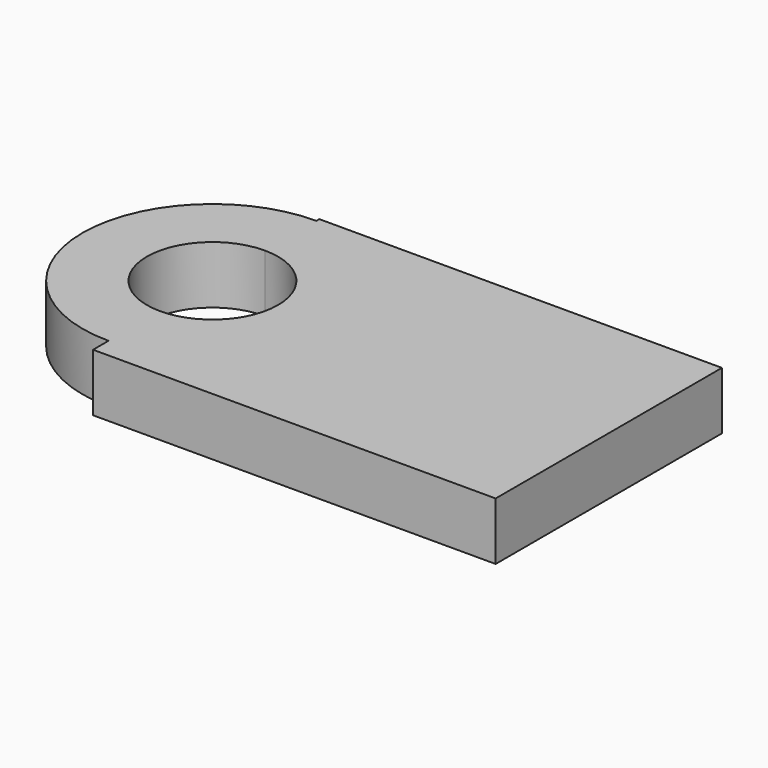
from build123d import *

# Parameters (mm, degrees)
F1_DEPTH = 12.7


with BuildPart() as f1:
    # F0 (on Top) → F1 (new body)
    with BuildSketch(Plane.XY):
        with BuildLine():
            Line((-44.3014800549, -32.8442007303), (44.3014800549, -32.8442007303))
            Line((44.3014800549, -32.8442007303), (44.3014800549, 29.407016933))
            Line((44.3014800549, 29.407016933), (-44.3014800549, 29.407016933))
            Line((-44.3014800549, 29.407016933), (-44.3014800549, 28.5903187115))
            ThreePointArc((-44.3014800549, 28.5903187115), (-24.0850718176, 20.2164082372), (-15.7111613433, 0))
            ThreePointArc((-15.7111613433, 0), (-24.0850718176, -20.2164082372), (-44.3014800549, -28.5903187115))
            Line((-44.3014800549, -28.5903187115), (-44.3014800549, -32.8442007303))
        make_face()
        with BuildLine():
            ThreePointArc((-44.3014800549, 28.5903187115), (-72.8917987664, 0), (-44.3014800549, -28.5903187115))
            Line((-44.3014800549, -28.5903187115), (-44.3014800549, -14.4344542652))
            ThreePointArc((-44.3014800549, -14.4344542652), (-58.73593432, 0), (-44.3014800549, 14.4344542652))
            Line((-44.3014800549, 14.4344542652), (-44.3014800549, 28.5903187115))
        make_face()
        with BuildLine():
            Line((-44.3014800549, -14.4344542652), (-44.3014800549, -28.5903187115))
            ThreePointArc((-44.3014800549, -28.5903187115), (-24.0850718176, -20.2164082372), (-15.7111613433, 0))
            ThreePointArc((-15.7111613433, 0), (-24.0850718176, 20.2164082372), (-44.3014800549, 28.5903187115))
            Line((-44.3014800549, 28.5903187115), (-44.3014800549, 14.4344542652))
            ThreePointArc((-44.3014800549, 14.4344542652), (-34.0947795612, 10.2067004936), (-29.8670257897, 0))
            ThreePointArc((-29.8670257897, 0), (-34.0947795612, -10.2067004936), (-44.3014800549, -14.4344542652))
        make_face()
    extrude(amount=F1_DEPTH)


solid = f1.part
